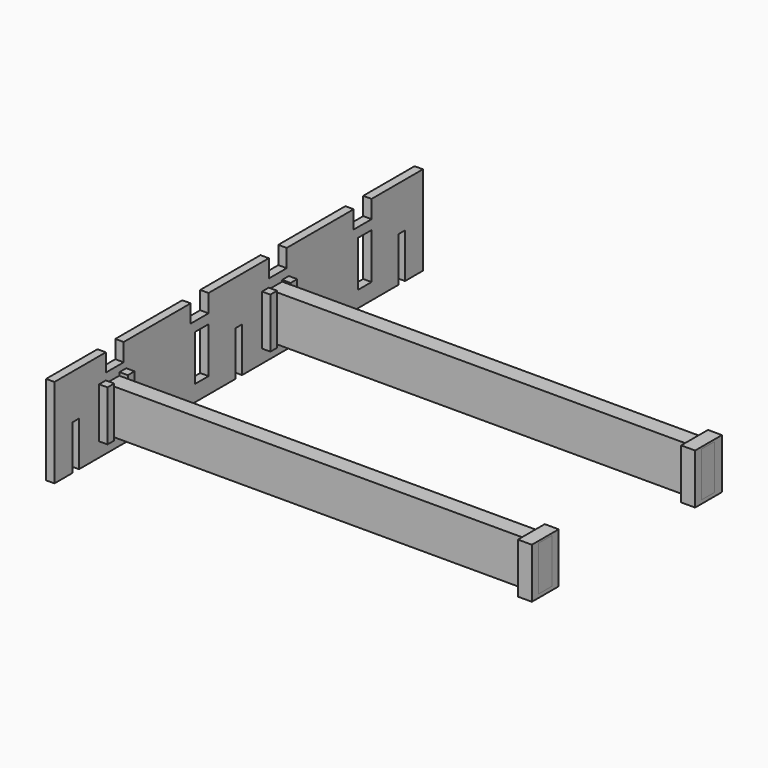
from build123d import *

# Parameters (mm, degrees)
F0_W          = 30
F0_H          = 80
F0_H_2        = 81.990397
F1_DEPTH      = 15
F2_W          = 15
F2_H          = 90
F3_DEPTH      = 15
F4_W          = 30
F4_H          = 81.990397
F4_H_2        = 80
F5_DEPTH      = 775
F5_DEPTH_BACK = 25
F6_W          = 60
F6_H          = 90
F6_W_2        = 30
F6_H_2        = 80
F7_DEPTH      = 25


with BuildPart() as f1:
    # F0 (on Right) → F1 (new body)
    with BuildSketch(Plane.YZ):
        Polygon((-297.5, 80), (-412.5, 80), (-412.5, -80), (-372.5, -80), (-372.5, 0), (-357.5, 0), (-357.5, -80), (-332.5, -80), (-7.5, -80), (-7.5, 0), (7.5, 0), (7.5, -80), (332.5, -80), (357.5, -80), (357.5, 0), (372.5, 0), (372.5, -80), (412.5, -80), (412.5, 80), (297.5, 80), (297.5, 48), (257.5, 48), (257.5, 80), (107.5, 80), (107.5, 48), (67.5, 48), (67.5, 80), (-67.5, 80), (-67.5, 48), (-107.5, 48), (-107.5, 80), (-257.5, 80), (-257.5, 48), (-297.5, 48), align=None)
        with Locations((-282.5, -9.096409)):
            Rectangle(F0_W, F0_H, mode=Mode.SUBTRACT)
        with Locations((-82.5, -10.091607)):
            Rectangle(F0_W, F0_H_2, mode=Mode.SUBTRACT)
        with Locations((82.5, -10.091607)):
            Rectangle(F0_W, F0_H_2, mode=Mode.SUBTRACT)
        with Locations((282.5, -10.091607)):
            Rectangle(F0_W, F0_H_2, mode=Mode.SUBTRACT)
    extrude(amount=F1_DEPTH)


with BuildPart() as f3:
    # F2 (on face) → F3 (new body)
    with BuildSketch(Plane.YZ.offset(15)):
        Polygon((-297.5, 30.903591), (-297.5, 35.676506), (-312.5, 35.676506), (-312.5, -54.323494), (-297.5, -54.323494), (-297.5, -49.096409), align=None)
        with Locations((-259.414852, -8.625042)):
            Rectangle(F2_W, F2_H)
        with Locations((59.711874, -11.278906)):
            Rectangle(F2_W, F2_H)
        Polygon((112.327493, -56.278904), (112.327493, 33.721096), (97.327493, 33.721096), (97.327493, 30.903591), (97.5, 30.903591), (97.5, -51.086806), (97.327493, -51.086806), (97.327493, -56.278904), align=None)
    extrude(amount=F3_DEPTH)


with BuildPart() as f5:
    # F4 (on face) → F5 (new body, two sides)
    with BuildSketch(Plane.YZ.offset(15)) as f5_sk:
        with Locations((82.5, -10.091607)):
            Rectangle(F4_W, F4_H)
        with Locations((-282.5, -9.096409)):
            Rectangle(F4_W, F4_H_2)
    extrude(amount=F5_DEPTH)
    extrude(f5_sk.sketch, amount=-F5_DEPTH_BACK)


with BuildPart() as f7:
    # F6 (on face) → F7 (new body)
    with BuildSketch(Plane.YZ.offset(790)):
        with Locations((-282.277718, -10.423334)):
            Rectangle(F6_W, F6_H)
        with Locations((-282.5, -9.096409)):
            Rectangle(F6_W_2, F6_H_2, mode=Mode.SUBTRACT)
        with Locations((83.213313, -10.423334)):
            Rectangle(F6_W, F6_H)
        with Locations((82.146078, -9.096409)):
            Rectangle(F6_W_2, F6_H_2, mode=Mode.SUBTRACT)
    extrude(amount=-F7_DEPTH)


solid = Compound([f1.part, f3.part, f5.part, f7.part])
